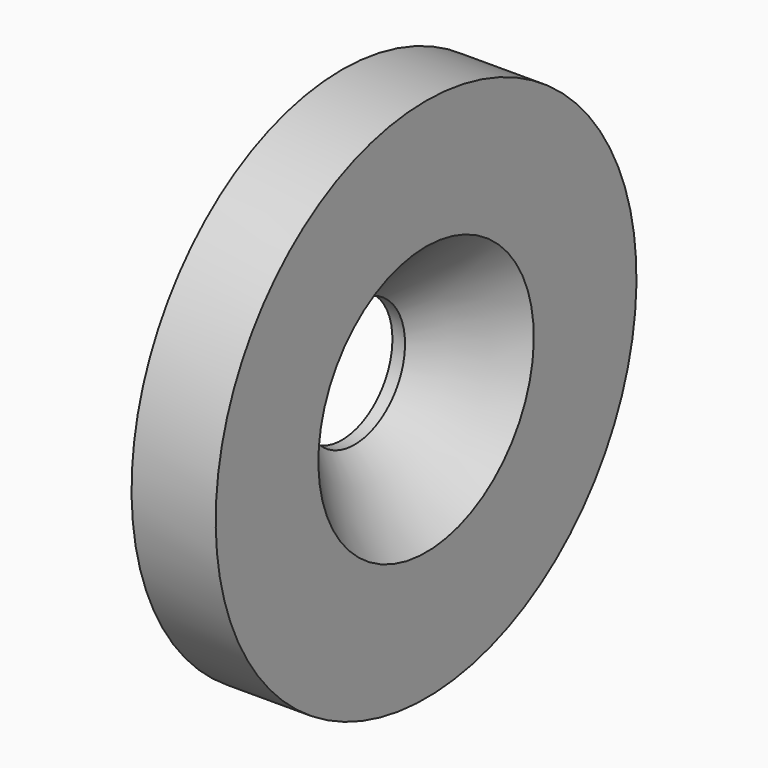
from build123d import *


with BuildPart() as part:
    # Sketch → Revolution (revolve)
    with BuildSketch(Plane.XZ):
        Polygon((0, 3), (0, 12.5), (4, 12.5), (4, 6.4), (0.6, 3), align=None)
    revolve(axis=Axis((0, 0, 0), (1, 0, 0)))


solid = part.part
